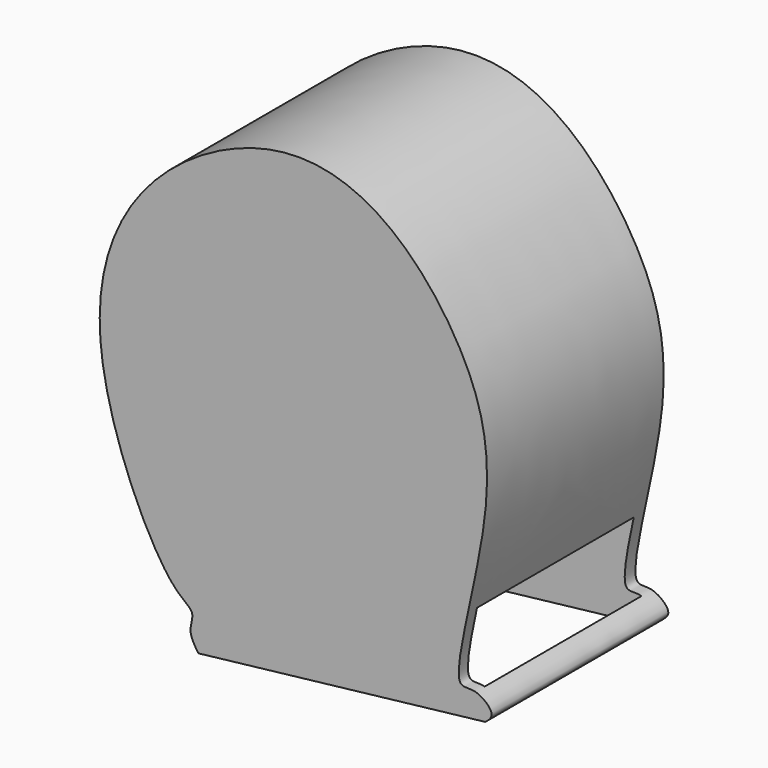
from build123d import *

# Parameters (mm, degrees)
F1_DEPTH = 44.45
F2_W     = 54.4771663845
F2_H     = 39.4526661839
F3_DEPTH = 45.72


with BuildPart() as f1:
    # F0 (on Front) → F1 (new body)
    with BuildSketch(Plane.XZ):
        with BuildLine():
            add(Edge.make_bspline(
                [(-52.7087599039, -38.0323678255), (-53.4752910881, -36.9080863585), (-54.9408940849, -34.7584669807), (-53.0734386576, -30.7565238112), (-59.7239567876, -28.4389746589), (-77.9796661217, 10.3938634714), (-66.3236427362, 43.7950287067), (-37.1541518644, 59.5181280735), (-14.8176244129, 53.2762426394), (2.1259045366, 32.8778039875), (8.6203578848, 8.7683637332), (-3.2105195347, -28.3454801296), (2.9717548511, -25.8432675306), (7.3994447779, -29.4723473901), (5.7401807569, -30.836744264), (5.0499429926, -31.4043201506)],
                knots=[0, 0, 0, 0, 0.0395729359, 0.0756632145, 0.1205650329, 0.2483743806, 0.3669498406, 0.4772190299, 0.5702944414, 0.6703434103, 0.7768199108, 0.8919428278, 0.9265100907, 0.9694289094, 1, 1, 1, 1], degree=3))
            Line((-52.7087599039, -38.0323678255), (5.0499429926, -31.4043201506))
        make_face()
    extrude(amount=F1_DEPTH)

    # F2 (on face) → F3 (cut)
    with BuildSketch(Plane(origin=(3.622570691, 0, -31.5681169672), x_dir=(0.9934800719, 0, 0.1140059065), z_dir=(0.1140059065, 0, -0.9934800719))):
        with Locations((-27.2385831922, 22.4091141718)):
            Rectangle(F2_W, F2_H)
    extrude(amount=-F3_DEPTH, mode=Mode.SUBTRACT)


solid = f1.part
